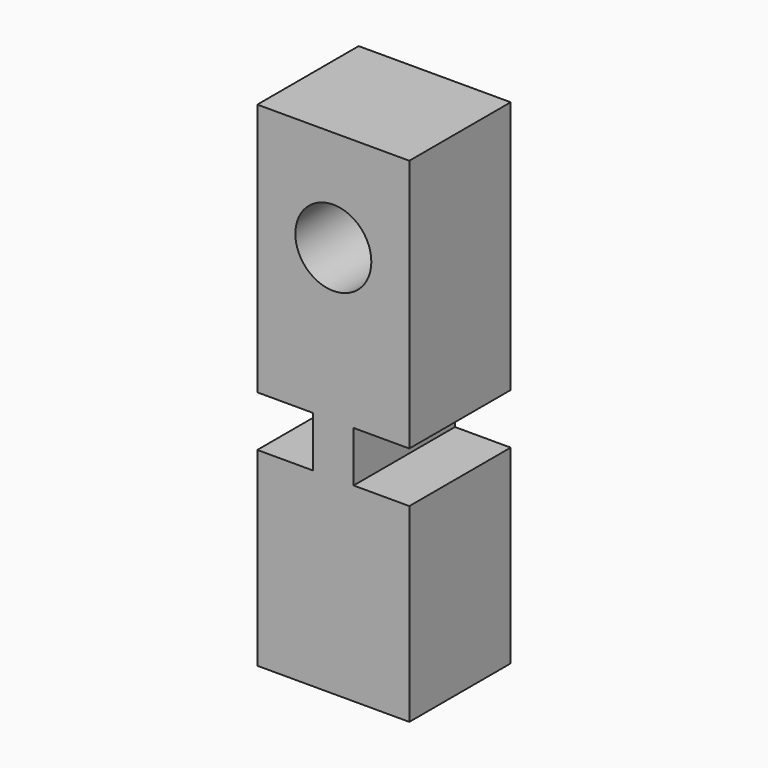
from build123d import *

# Parameters (mm, degrees)
F0_W     = 4.064
F0_H     = 5.08
F1_DEPTH = 12.7
F2_R     = 3.81
F3_DEPTH = 25.4


with BuildPart() as f1:
    # F0 (on Front) → F1 (new body)
    with BuildSketch(Plane.XZ):
        Polygon((-7.62, -8.086451), (0, -8.086451), (7.62, -8.086451), (7.62, 10.963549), (3.556, 10.963549), (2.032, 10.963549), (-2.032, 10.963549), (-3.556, 10.963549), (-7.62, 10.963549), align=None)
        with Locations((0, 13.503549)):
            Rectangle(F0_W, F0_H)
        Polygon((-3.556, 16.043549), (-2.032, 16.043549), (2.032, 16.043549), (3.556, 16.043549), (7.62, 16.043549), (7.62, 41.443549), (0, 41.443549), (-7.62, 41.443549), (-7.62, 16.043549), align=None)
    extrude(amount=F1_DEPTH)

    # F2 (on face) → F3 (cut)
    with BuildSketch(Plane.XZ.offset(12.7)):
        with Locations((0, 31.283549)):
            Circle(F2_R)
    extrude(amount=-F3_DEPTH, mode=Mode.SUBTRACT)


solid = f1.part
